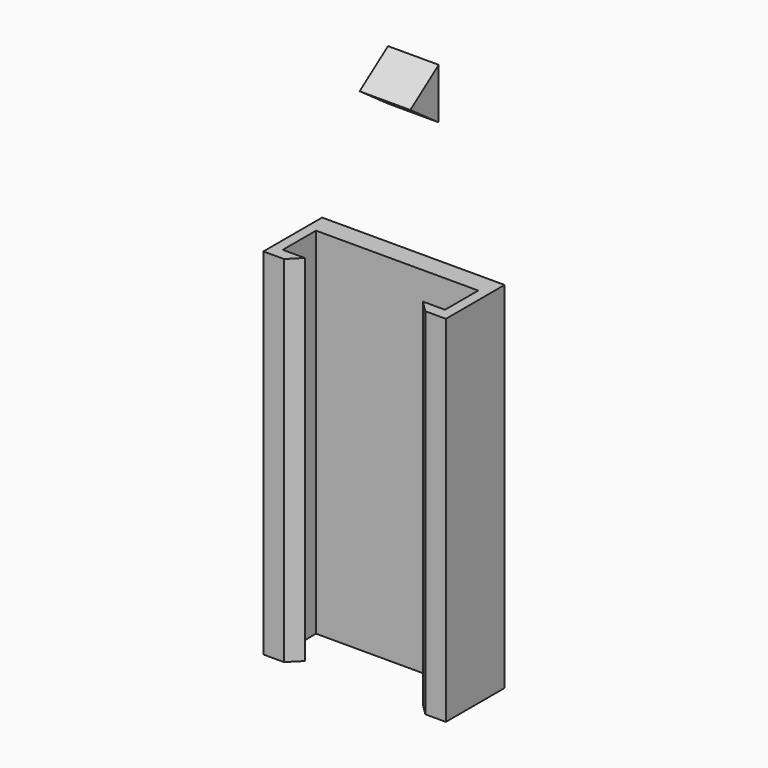
from build123d import *

# Parameters (mm, degrees)
F1_DEPTH      = 35
F3_DEPTH      = 2.5
F3_DEPTH_BACK = 2.5


with BuildPart() as f1:
    # F0 (on Top) → F1 (new body)
    with BuildSketch(Plane.XY):
        Polygon((0, 7.24116), (-9, 7.24116), (-9, 0), (-6.968603, 0), (-5.827444, 1.14116), (-8, 1.14116), (-8, 5.24116), (-0.176315, 5.24116), (0, 5.24116), (0.176315, 5.24116), (8, 5.24116), (8, 1.14116), (5.827444, 1.14116), (6.968603, 0), (9, 0), (9, 7.24116), align=None)
    extrude(amount=F1_DEPTH)


with BuildPart() as f3:
    # F2 (on Right) → F3 (new body, two sides)
    with BuildSketch(Plane.YZ) as f3_sk:
        Polygon((3.74116, 49.5), (7.24116, 47), (7.24116, 52), align=None)
    extrude(amount=F3_DEPTH)
    extrude(f3_sk.sketch, amount=-F3_DEPTH_BACK)


solid = Compound([f1.part, f3.part])
